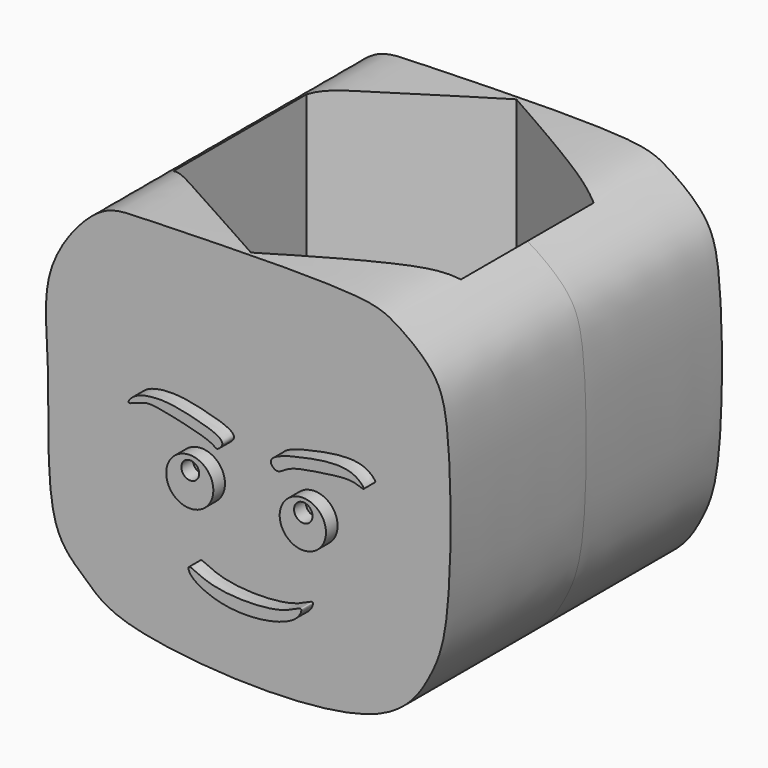
from build123d import *

# Parameters (mm, degrees)
F1_DEPTH = 35
F2_R     = 4.8610392229
F2_R_2   = 1.838236021
F2_R_3   = 4.772050611
F2_R_4   = 1.9009218094
F3_DEPTH = 3
F4_DEPTH = 3
F6_DEPTH = 35.4595478578
F7_DEPTH = 28.7


with BuildPart() as f1:
    # F0 (on Front) → F1 (new body, symmetric)
    with BuildSketch(Plane.XZ):
        with BuildLine():
            add(Edge.make_bspline(
                [(-40.4168218374, 20.0773254037), (-42.4113345807, 14.3662884297), (-40.3738816159, 1.7487507243), (-42.1970856863, -27.5764501107), (-33.2047367114, -34.4512429341), (-26.1921286077, -42.2654018933), (27.7052199787, -45.0963290959), (37.7418711229, -29.3673942219), (42.0727024414, -18.6861779492), (42.0654836309, 16.4037373009), (39.1601287392, 26.5304793905), (30.3759843175, 33.0817413309), (23.2037888263, 36.2983875654), (-21.0958175045, 34.7622490265), (-30.868179883, 34.7741750775), (-38.5952222365, 25.2932472913), (-40.4168218374, 20.0773254037)],
                knots=[0, 0, 0, 0, 0.073675449, 0.1628952339, 0.2143781961, 0.2677933793, 0.3875588644, 0.4547007052, 0.5125272715, 0.6112824772, 0.666703589, 0.7177588542, 0.7671615062, 0.8777746801, 0.9327118019, 1, 1, 1, 1], degree=3))
        make_face()
    extrude(amount=F1_DEPTH, both=True)

    # F2 (on face) → F3 (join)
    with BuildSketch(Plane.XZ.offset(35)):
        with BuildLine():
            add(Edge.make_bspline(
                [(-3.9121131413, 0), (-3.5035632505, 0.1089868916), (-1.3955562023, 2.0882806418), (-9.9189796979, 4.4184709443), (-15.5562312323, 5.4458179162), (-21.0919908815, 4.55677647), (-22.9784363782, 1.7185286296), (-18.9536727642, 3.749752001), (-16.0860017394, 3.5655867053), (-4.8162217519, 1.0872921521), (-4.2528522806, -0.0908973432), (-3.9121131413, 0)],
                knots=[0, 0, 0, 0, 0.0715005048, 0.2155901733, 0.3593571485, 0.4869254136, 0.5579931122, 0.6501278915, 0.757645409, 0.9403670861, 1, 1, 1, 1], degree=3))
        make_face()
        with BuildLine():
            add(Edge.make_bspline(
                [(8.2640470937, 0), (7.6687871147, 0.1156302484), (5.7387761569, 2.1763153929), (14.4511176557, 4.5385856935), (23.8650284329, 5.8943537048), (27.1188768684, 1.8299851377), (23.8643798858, 3.6311509266), (17.8323216425, 2.5886791111), (10.7259150989, 1.7027405399), (8.9841442151, -0.1398800725), (8.2640470937, 0)],
                knots=[0, 0, 0, 0, 0.0779501266, 0.2348784316, 0.4222268616, 0.5184761333, 0.5995220913, 0.7488074501, 0.9057022751, 1, 1, 1, 1], degree=3))
        make_face()
        with Locations((-9.6002370119, -7.8156460077)):
            Circle(F2_R)
        with Locations((-9.5014125109, -5.7403384708)):
            Circle(F2_R_2, mode=Mode.SUBTRACT)
        with Locations((13.7222697958, -7.9144705087)):
            Circle(F2_R_3)
        with Locations((13.8210952282, -5.8391625062)):
            Circle(F2_R_4, mode=Mode.SUBTRACT)
        with BuildLine():
            add(Edge.make_bspline(
                [(-9.7576770931, -23.3506206423), (-9.9605160881, -23.4882702074), (-9.722379447, -25.1988281378), (-3.0522488083, -28.6135222697), (6.9644841934, -28.2939285689), (12.862469754, -25.8352561044), (13.8691820976, -22.5946512704), (9.5106330697, -26.066825488), (-5.2777963777, -26.1928172327), (-9.3658482115, -23.0847197234), (-9.7576770931, -23.3506206423)],
                knots=[0, 0, 0, 0, 0.0576202648, 0.1989597612, 0.3732835941, 0.5059760991, 0.5750730299, 0.6763877149, 0.8886935723, 1, 1, 1, 1], degree=3))
        make_face()
    extrude(amount=F3_DEPTH)

    # F4 (add): faces of the model
    f4_faces = [f1.faces().sort_by_distance(p)[0] for p in [
        (-9.5014125109, -35, -5.7403384708),
        (13.8210952282, -35, -5.8391625062),
    ]]
    extrude(f4_faces, amount=-F4_DEPTH)

    # F5 (on Top) → F6 (cut, through all)
    with BuildSketch(Plane.XY):
        Polygon((-29.6463891864, 17.1163507773), (-29.6463891864, -17.1163507773), (0, -34.2327015545), (29.6463891864, -17.1163507773), (29.6463891864, 17.1163507773), (0, 34.2327015545), align=None)
    extrude(amount=F6_DEPTH, mode=Mode.SUBTRACT)

    # F5 (on Top) → F7 (cut)
    with BuildSketch(Plane.XY):
        Polygon((-29.6463891864, 17.1163507773), (-29.6463891864, -17.1163507773), (0, -34.2327015545), (29.6463891864, -17.1163507773), (29.6463891864, 17.1163507773), (0, 34.2327015545), align=None)
    extrude(amount=-F7_DEPTH, mode=Mode.SUBTRACT)


solid = f1.part
